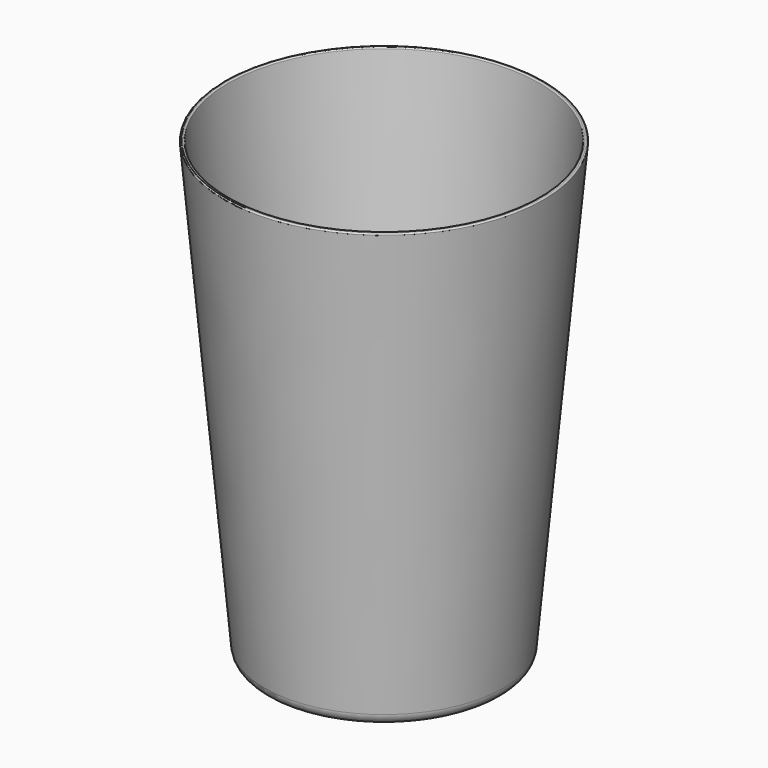
from build123d import *


with BuildPart() as f1:
    # F0 (on Front) → F1 (revolve)
    with BuildSketch(Plane.XZ):
        with BuildLine():
            Line((-43.328613, 0), (0, 0))
            Line((0, 0), (0, 1.5))
            Line((0, 1.5), (-41.958164, 1.5))
            ThreePointArc((-41.958164, 1.5), (-45.330697, 2.808655), (-46.937836, 6.04959))
            Line((-46.937836, 6.04959), (-63.029157, 183.952895))
            ThreePointArc((-63.029157, 183.952895), (-63.206857, 184.291819), (-63.572165, 184.405821))
            Line((-63.572165, 184.405821), (-64.070132, 184.36078))
            ThreePointArc((-64.070132, 184.36078), (-64.409056, 184.18308), (-64.523058, 183.817772))
            Line((-64.523058, 183.817772), (-48.308285, 4.54959))
            ThreePointArc((-48.308285, 4.54959), (-46.701145, 1.308655), (-43.328613, 0))
        make_face()
    revolve(axis=Axis((0, 0, 0.75), (0, 0, -1)))


solid = f1.part
